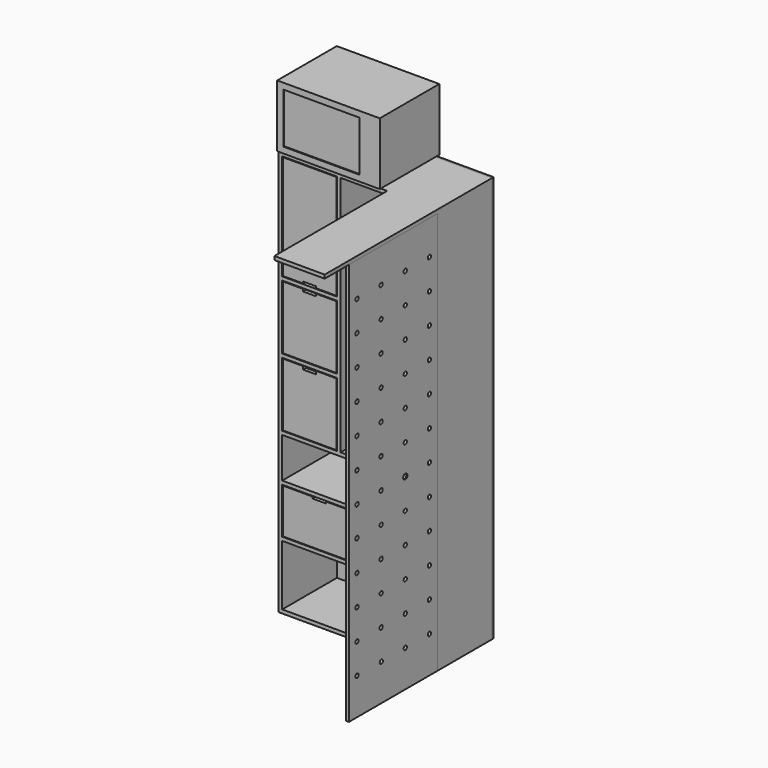
from build123d import *

# Parameters (mm, degrees)
F0_W      = 790
F0_H      = 2020
F0_W_2    = 368
F0_H_2    = 228
F0_W_3    = 272
F0_H_3    = 320
F0_W_4    = 754
F0_H_4    = 300
F0_H_5    = 200
F0_H_6    = 526
F0_W_5    = 464
F0_H_7    = 1202
F1_DEPTH  = 340
F2_W      = 790
F2_H      = 2020
F3_DEPTH  = 9
F4_W      = 250
F4_H      = 701
F5_DEPTH  = 18
F6_W      = 18
F6_H      = 550
F7_DEPTH  = 2002
F8_R      = 10
F9_DEPTH  = 18
F10_SIZE  = 3
F11_W     = 266
F11_H     = 520
F12_DEPTH = 18
F11_H_2   = 314
F11_W_2   = 362
F11_H_3   = 222
F13_W     = 65
F13_H     = 8.7462768555
F14_DEPTH = 25
F15_W     = 65
F15_H     = 13.2660970688
F16_DEPTH = 25
F17_DEPTH = 25
F18_W     = 65
F18_H     = 15.2338905334
F19_DEPTH = 25
F20_W     = 65
F20_H     = 11.3606023788
F21_DEPTH = 25
F22_W     = 65
F22_H     = 8.4088764191
F23_DEPTH = 25
F24_R     = 12.5
F25_DEPTH = 464
F26_W     = 300
F26_H     = 18
F27_DEPTH = 272
F28_W     = 510
F28_H     = 310
F29_DEPTH = 370
F30_W     = 380
F30_H     = 250
F31_DEPTH = 5


with BuildPart() as f1:
    # F0 (on Front) → F1 (new body)
    with BuildSketch(Plane.XZ):
        with Locations((395, 1010)):
            Rectangle(F0_W, F0_H)
        with Locations((202, 450)):
            Rectangle(F0_W_2, F0_H_2, mode=Mode.SUBTRACT)
        with Locations((154, 960)):
            Rectangle(F0_W_3, F0_H_3, mode=Mode.SUBTRACT)
        with Locations((395, 168)):
            Rectangle(F0_W_4, F0_H_4, mode=Mode.SUBTRACT)
        with Locations((588, 450)):
            Rectangle(F0_W_2, F0_H_2, mode=Mode.SUBTRACT)
        with Locations((395, 682)):
            Rectangle(F0_W_4, F0_H_5, mode=Mode.SUBTRACT)
        with Locations((154, 1298)):
            Rectangle(F0_W_3, F0_H_3, mode=Mode.SUBTRACT)
        with Locations((154, 1739)):
            Rectangle(F0_W_3, F0_H_6, mode=Mode.SUBTRACT)
        with Locations((540, 1401)):
            Rectangle(F0_W_5, F0_H_7, mode=Mode.SUBTRACT)
    extrude(amount=F1_DEPTH)

    # F4 (on face) → F5 (join)
    with BuildSketch(Plane.XY.offset(2020)):
        with Locations((665, -690.5)):
            Rectangle(F4_W, F4_H)
    extrude(amount=-F5_DEPTH)

    # F13 (on face) → F17 (cut)
    with BuildSketch(Plane.XZ.offset(340)):
        with Locations((202, 556.6268615723)):
            Rectangle(F13_W, F13_H)
    extrude(amount=-F17_DEPTH, mode=Mode.SUBTRACT)


with BuildPart() as f3:
    # F2 (on face) → F3 (new body)
    with BuildSketch(Plane(origin=(0, 0, 0), x_dir=(-1, 0, 0), z_dir=(0, 1, 0))):
        with Locations((-395, 1010)):
            Rectangle(F2_W, F2_H)
    extrude(amount=F3_DEPTH)


with BuildPart() as f7:
    # F6 (on face) → F7 (new body)
    with BuildSketch(Plane(origin=(0, 0, 2002), x_dir=(1, 0, 0), z_dir=(0, 0, -1))):
        with Locations((781, 615)):
            Rectangle(F6_W, F6_H)
    extrude(amount=F7_DEPTH)

    # F8 (on face) → F9 (cut)
    with BuildSketch(Plane(origin=(772, 0, 0), x_dir=(0, -1, 0), z_dir=(-1, 0, 0))):
        with Locations((390, 1832)):
            Circle(F8_R)
        with Locations((540, 1832)):
            Circle(F8_R)
        with Locations((690, 1832)):
            Circle(F8_R)
        with Locations((840, 1832)):
            Circle(F8_R)
        with Locations((840, 1682)):
            Circle(F8_R)
        with Locations((840, 1532)):
            Circle(F8_R)
        with Locations((840, 1382)):
            Circle(F8_R)
        with Locations((840, 1232)):
            Circle(F8_R)
        with Locations((840, 1082)):
            Circle(F8_R)
        with Locations((840, 932)):
            Circle(F8_R)
        with Locations((840, 784.3433618546)):
            Circle(F8_R)
        with Locations((840, 632)):
            Circle(F8_R)
        with Locations((840, 482)):
            Circle(F8_R)
        with Locations((840, 332)):
            Circle(F8_R)
        with Locations((840, 182)):
            Circle(F8_R)
        with Locations((688.7485384941, 182)):
            Circle(F8_R)
        with Locations((540, 182)):
            Circle(F8_R)
        with Locations((390, 182)):
            Circle(F8_R)
        with Locations((390, 332)):
            Circle(F8_R)
        with Locations((540, 332)):
            Circle(F8_R)
        with Locations((690, 332)):
            Circle(F8_R)
        with Locations((690, 482)):
            Circle(F8_R)
        with Locations((540, 482)):
            Circle(F8_R)
        with Locations((390, 482)):
            Circle(F8_R)
        with Locations((390, 632)):
            Circle(F8_R)
        with Locations((540, 632)):
            Circle(F8_R)
        with Locations((690, 632)):
            Circle(F8_R)
        with Locations((690, 782)):
            Circle(F8_R)
        with Locations((540, 782)):
            Circle(F8_R)
        with Locations((390, 782)):
            Circle(F8_R)
        with Locations((390, 932)):
            Circle(F8_R)
        with Locations((540, 932)):
            Circle(F8_R)
        with Locations((690, 932)):
            Circle(F8_R)
        with Locations((691.043138504, 1082)):
            Circle(F8_R)
        with Locations((540, 1082)):
            Circle(F8_R)
        with Locations((390, 1082)):
            Circle(F8_R)
        with Locations((390, 1232)):
            Circle(F8_R)
        with Locations((390, 1382)):
            Circle(F8_R)
        with Locations((390, 1532)):
            Circle(F8_R)
        with Locations((390, 1682)):
            Circle(F8_R)
        with Locations((540, 1682)):
            Circle(F8_R)
        with Locations((540, 1532)):
            Circle(F8_R)
        with Locations((540, 1382)):
            Circle(F8_R)
        with Locations((540, 1232)):
            Circle(F8_R)
        with Locations((690, 1232)):
            Circle(F8_R)
        with Locations((690, 1382)):
            Circle(F8_R)
        with Locations((690, 1532)):
            Circle(F8_R)
        with Locations((690, 1682)):
            Circle(F8_R)
    extrude(amount=-F9_DEPTH, mode=Mode.SUBTRACT)

    # F10
    f10_edges = [f7.edges().sort_by_distance(p)[0] for p in [
        (772, -380, 1832),
        (772, -530, 1832),
        (772, -680, 1832),
        (772, -830, 1832),
        (772, -830, 1682),
        (772, -680, 1682),
        (772, -530, 1682),
        (772, -380, 1682),
        (772, -380, 1532),
        (772, -530, 1532),
        (772, -680, 1532),
        (772, -830, 1532),
        (772, -830, 1382),
        (772, -680, 1382),
        (772, -530, 1382),
        (772, -380, 1382),
        (772, -380, 1232),
        (772, -530, 1232),
        (772, -680, 1232),
        (772, -830, 1232),
        (772, -830, 1082),
        (772, -681.043139, 1082),
        (772, -530, 1082),
        (772, -380, 1082),
        (772, -380, 932),
        (790, -530, 932),
        (772, -530, 932),
        (772, -830, 932),
        (772, -890, 1001),
        (772, -615, 2002),
        (772, -615, 0),
        (772, -340, 1001),
        (772, -830, 182),
        (772, -830, 332),
        (772, -830, 482),
        (772, -678.748538, 182),
        (772, -680, 332),
        (772, -680, 482),
        (772, -830, 632),
        (772, -830, 784.343362),
        (772, -680, 632),
        (772, -680, 782),
        (772, -680, 932),
        (772, -530, 182),
        (772, -530, 332),
        (772, -530, 482),
        (772, -380, 182),
        (772, -380, 332),
        (772, -380, 482),
        (772, -530, 632),
        (772, -530, 782),
        (772, -380, 632),
        (772, -380, 782),
    ]]
    chamfer(f10_edges, length=F10_SIZE)


with BuildPart() as f12:
    # F11 (on face) → F12 (new body)
    with BuildSketch(Plane.XZ.offset(340)):
        with Locations((154, 1739)):
            Rectangle(F11_W, F11_H)
    extrude(amount=-F12_DEPTH)

    # F22 (on face) → F23 (cut)
    with BuildSketch(Plane.XZ.offset(340)):
        with Locations((154, 1483.2044382095)):
            Rectangle(F22_W, F22_H)
    extrude(amount=-F23_DEPTH, mode=Mode.SUBTRACT)


with BuildPart() as f12b:
    # F11 (on face) → F12, piece 2 (new body)
    with BuildSketch(Plane.XZ.offset(340)):
        with Locations((154, 1298)):
            Rectangle(F11_W, F11_H_2)
    extrude(amount=-F12_DEPTH)

    # F20 (on face) → F21 (cut)
    with BuildSketch(Plane.XZ.offset(340)):
        with Locations((154, 1449.3196988106)):
            Rectangle(F20_W, F20_H)
    extrude(amount=-F21_DEPTH, mode=Mode.SUBTRACT)


with BuildPart() as f12c:
    # F11 (on face) → F12, piece 3 (new body)
    with BuildSketch(Plane.XZ.offset(340)):
        with Locations((154, 960)):
            Rectangle(F11_W, F11_H_2)
    extrude(amount=-F12_DEPTH)

    # F18 (on face) → F19 (cut)
    with BuildSketch(Plane.XZ.offset(340)):
        with Locations((154, 1109.3830547333)):
            Rectangle(F18_W, F18_H)
    extrude(amount=-F19_DEPTH, mode=Mode.SUBTRACT)


with BuildPart() as f12d:
    # F11 (on face) → F12, piece 4 (new body)
    with BuildSketch(Plane.XZ.offset(340)):
        with Locations((202, 450)):
            Rectangle(F11_W_2, F11_H_3)
    extrude(amount=-F12_DEPTH)

    # F13 (on face) → F14 (cut)
    with BuildSketch(Plane.XZ.offset(340)):
        with Locations((202, 556.6268615723)):
            Rectangle(F13_W, F13_H)
    extrude(amount=-F14_DEPTH, mode=Mode.SUBTRACT)


with BuildPart() as f12e:
    # F11 (on face) → F12, piece 5 (new body)
    with BuildSketch(Plane.XZ.offset(340)):
        with Locations((588, 450)):
            Rectangle(F11_W_2, F11_H_3)
    extrude(amount=-F12_DEPTH)

    # F15 (on face) → F16 (cut)
    with BuildSketch(Plane.XZ.offset(340)):
        with Locations((588, 554.3669514656)):
            Rectangle(F15_W, F15_H)
    extrude(amount=-F16_DEPTH, mode=Mode.SUBTRACT)


with BuildPart() as f25:
    # F24 (on face) → F25 (new body, through all)
    with BuildSketch(Plane(origin=(772, 0, 0), x_dir=(0, -1, 0), z_dir=(-1, 0, 0))):
        with Locations((225, 1952)):
            Circle(F24_R)
    extrude(amount=F25_DEPTH)


with BuildPart() as f27:
    # F26 (on face) → F27 (new body, through all)
    with BuildSketch(Plane.YZ.offset(18)):
        with Locations((-150, 1735)):
            Rectangle(F26_W, F26_H)
    extrude(amount=F27_DEPTH)


with BuildPart() as f29:
    # F28 (on face) → F29 (new body)
    with BuildSketch(Plane(origin=(0, 9, 0), x_dir=(-1, 0, 0), z_dir=(0, 1, 0))):
        with Locations((-265, 2185)):
            Rectangle(F28_W, F28_H)
    extrude(amount=-F29_DEPTH)

    # F30 (on face) → F31 (cut)
    with BuildSketch(Plane.XZ.offset(361)):
        with Locations((230, 2185)):
            Rectangle(F30_W, F30_H)
    extrude(amount=-F31_DEPTH, mode=Mode.SUBTRACT)


solid = Compound([f1.part, f3.part, f7.part, f12.part, f12b.part, f12c.part, f12d.part, f12e.part, f25.part, f27.part, f29.part])
